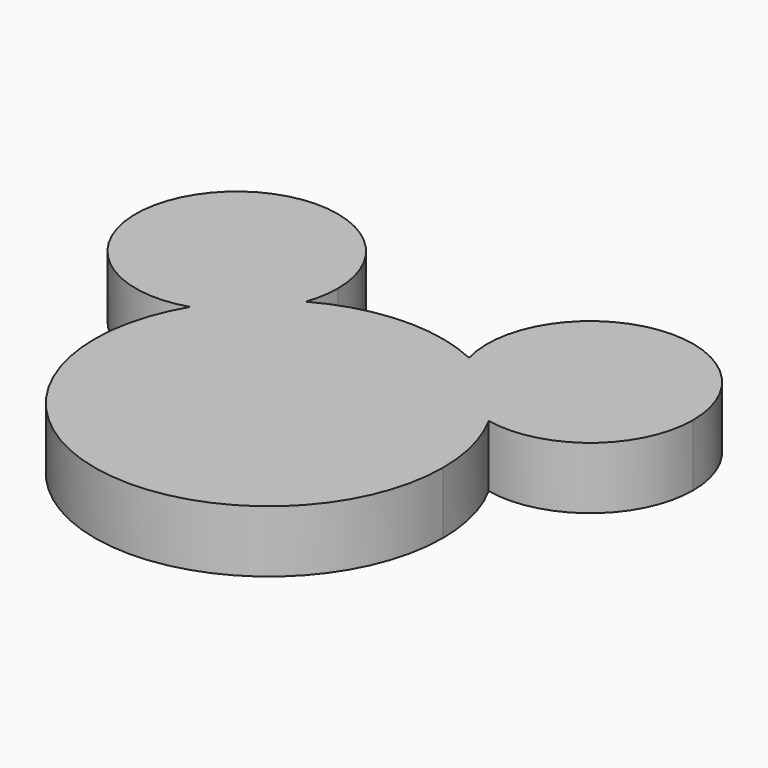
from build123d import *

# Parameters (mm, degrees)
F1_DEPTH = 10


with BuildPart() as f1:
    # F0 (on Top) → F1 (new body)
    with BuildSketch(Plane.XY):
        with BuildLine():
            ThreePointArc((-30.293809798, 5.9303317262), (-13.5387489786, -35.5502092603), (22.0330680191, -8.4206464354))
            ThreePointArc((22.0330680191, -8.4206464354), (21.1479502751, -1.419524921), (18.5482952641, 5.1410337217))
            ThreePointArc((18.5482952641, 5.1410337217), (10.523993366, 9.3012075006), (5.8590515306, 17.0429634058))
            ThreePointArc((5.8590515306, 17.0429634058), (-7.074281312, 19.6937803671), (-19.792655595, 16.1524692286))
            ThreePointArc((-19.792655595, 16.1524692286), (-23.8307305262, 9.7958026502), (-30.293809798, 5.9303317262))
        make_face()
        with BuildLine():
            ThreePointArc((5.8590515306, 17.0429634058), (10.523993366, 9.3012075006), (18.5482952641, 5.1410337217))
            ThreePointArc((18.5482952641, 5.1410337217), (13.146861043, 12.0975781831), (5.8590515306, 17.0429634058))
        make_face()
        with BuildLine():
            ThreePointArc((5.8590515306, 17.0429634058), (13.146861043, 12.0975781831), (18.5482952641, 5.1410337217))
            ThreePointArc((18.5482952641, 5.1410337217), (32.4160701368, 8.5391186206), (38.5428073237, 21.4358334092))
            ThreePointArc((38.5428073237, 21.4358334092), (19.6895316542, 37.9246568937), (5.8590515306, 17.0429634058))
        make_face()
        with BuildLine():
            ThreePointArc((-18.8964610276, 21.484998477), (-48.3679268886, 31.1266686737), (-30.293809798, 5.9303317262))
            ThreePointArc((-30.293809798, 5.9303317262), (-25.7205702793, 11.7372262186), (-19.792655595, 16.1524692286))
            ThreePointArc((-19.792655595, 16.1524692286), (-19.1220697647, 18.7813420229), (-18.8964610276, 21.484998477))
        make_face()
        with BuildLine():
            ThreePointArc((-19.792655595, 16.1524692286), (-25.7205702793, 11.7372262186), (-30.293809798, 5.9303317262))
            ThreePointArc((-30.293809798, 5.9303317262), (-23.8307305262, 9.7958026502), (-19.792655595, 16.1524692286))
        make_face()
    extrude(amount=F1_DEPTH)


solid = f1.part
